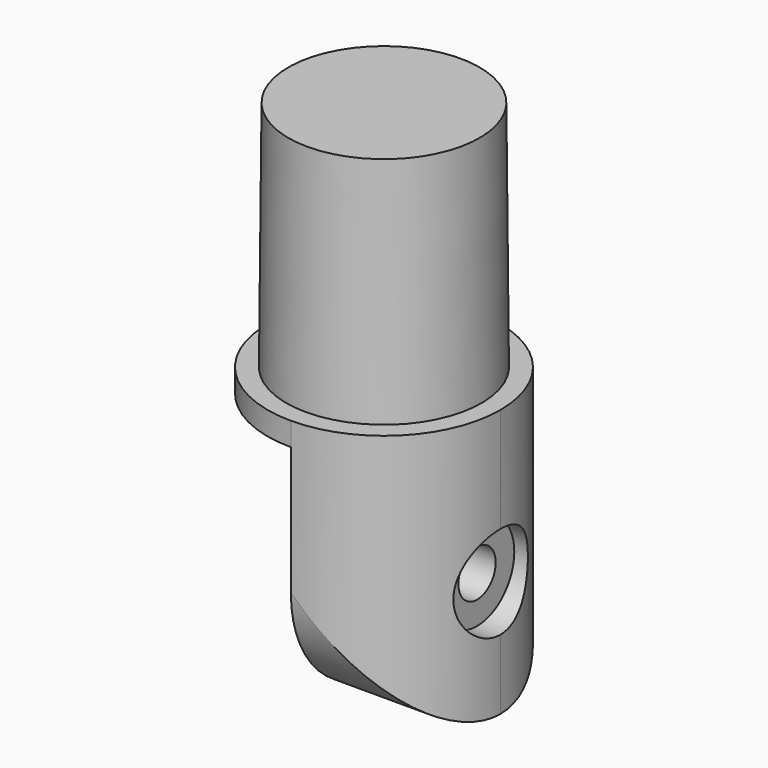
from build123d import *

# Parameters (mm, degrees)
F1_DEPTH = 31.75
F1_TAPER = 0.5
F2_DEPTH = 36.5125
F3_DEPTH = 3.175
F5_DEPTH = 15.876
F7_R     = 6.35
F8_DEPTH = 3.175


with BuildPart() as f1:
    # F0 (on Top) → F1 (new body)
    with BuildSketch(Plane.XY):
        with BuildLine():
            Line((0, -13.3223), (0, 13.3223))
            ThreePointArc((0, 13.3223), (-13.3223, 0), (0, -13.3223))
        make_face()
        with BuildLine():
            ThreePointArc((0, -13.3223), (9.420288671, -9.420288671), (13.3223, 0))
            ThreePointArc((13.3223, 0), (9.420288671, 9.420288671), (0, 13.3223))
            Line((0, 13.3223), (0, -13.3223))
        make_face()
    extrude(amount=F1_DEPTH, taper=F1_TAPER)

    # F0 (on Top) → F2 (join)
    with BuildSketch(Plane.XY):
        with BuildLine():
            ThreePointArc((0, -13.3223), (9.420288671, -9.420288671), (13.3223, 0))
            ThreePointArc((13.3223, 0), (9.420288671, 9.420288671), (0, 13.3223))
            Line((0, 13.3223), (0, -13.3223))
        make_face()
        with BuildLine():
            ThreePointArc((0, 13.3223), (9.420288671, 9.420288671), (13.3223, 0))
            ThreePointArc((13.3223, 0), (9.420288671, -9.420288671), (0, -13.3223))
            Line((0, -13.3223), (0, -15.875))
            ThreePointArc((0, -15.875), (11.2253201513, -11.2253201513), (15.875, 0))
            ThreePointArc((15.875, 0), (11.2253201513, 11.2253201513), (0, 15.875))
            Line((0, 15.875), (0, 13.3223))
        make_face()
    extrude(amount=-F2_DEPTH)

    # F0 (on Top) → F3 (join)
    with BuildSketch(Plane.XY):
        with BuildLine():
            ThreePointArc((0, -13.3223), (-13.3223, 0), (0, 13.3223))
            Line((0, 13.3223), (0, 15.875))
            ThreePointArc((0, 15.875), (-15.875, 0), (0, -15.875))
            Line((0, -15.875), (0, -13.3223))
        make_face()
        with BuildLine():
            Line((0, -13.3223), (0, 13.3223))
            ThreePointArc((0, 13.3223), (-13.3223, 0), (0, -13.3223))
        make_face()
    extrude(amount=-F3_DEPTH)

    # F4 (on face) → F5 (cut, through all)
    with BuildSketch(Plane(origin=(0, 0, 0), x_dir=(0, -1, 0), z_dir=(-1, 0, 0))):
        with BuildLine():
            ThreePointArc((-3.175, -20.6375), (0, -23.8125), (3.175, -20.6375))
            Line((3.175, -20.6375), (-3.175, -20.6375))
        make_face()
        with BuildLine():
            Line((-3.175, -20.6375), (3.175, -20.6375))
            ThreePointArc((3.175, -20.6375), (0, -17.4625), (-3.175, -20.6375))
        make_face()
        with BuildLine():
            ThreePointArc((5.44e-08, -36.5125), (-11.2253201321, -31.8628201706), (-15.875, -20.6375))
            Line((-15.875, -20.6375), (-15.875, -36.5125))
            Line((-15.875, -36.5125), (5.44e-08, -36.5125))
        make_face()
        with BuildLine():
            Line((15.875, -36.5125), (15.875, -20.6375))
            ThreePointArc((15.875, -20.6375), (11.2253201706, -31.8628201321), (5.44e-08, -36.5125))
            Line((5.44e-08, -36.5125), (15.875, -36.5125))
        make_face()
    extrude(amount=-F5_DEPTH, mode=Mode.SUBTRACT)

    # F7 (on offset) → F8 (cut)
    with BuildSketch(Plane.YZ.offset(15.875)):
        with Locations((0, -20.6375)):
            Circle(F7_R)
    extrude(amount=-F8_DEPTH, mode=Mode.SUBTRACT)


solid = f1.part
